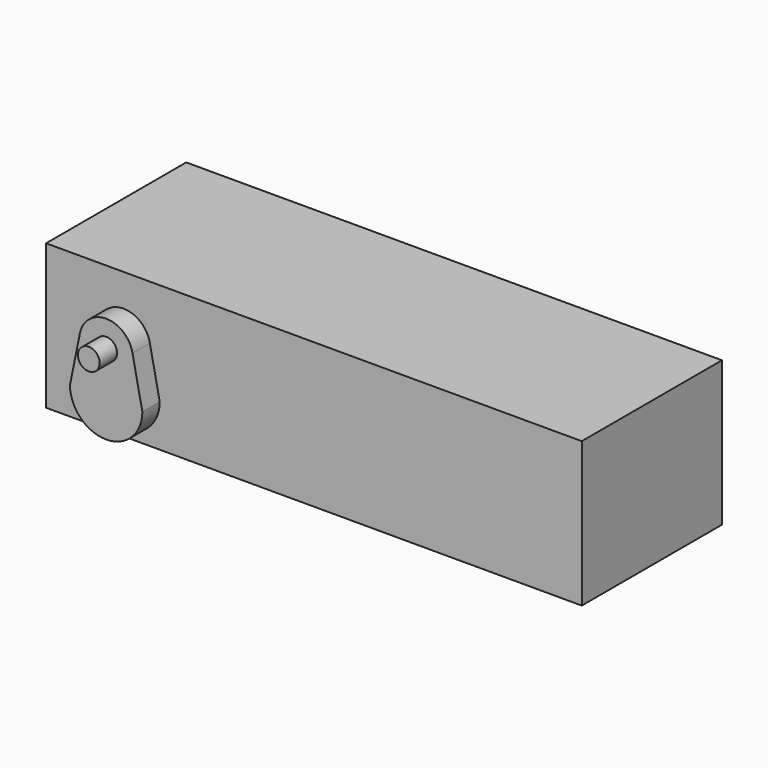
from build123d import *

# Parameters (mm, degrees)
F0_W          = 74
F0_H          = 20
F0_R          = 1.5
F1_DEPTH      = 12.1
F1_DEPTH_BACK = 12.1
F2_R          = 1.5
F3_DEPTH      = 16.1
F3_DEPTH_BACK = 16.1
F5_DEPTH      = 3
F7_DEPTH      = 3
F8_R          = 1.5
F9_DEPTH      = 3
F10_R         = 1.5
F11_DEPTH     = 3


with BuildPart() as f1:
    # F0 (on Front) → F1 (new body, two sides)
    with BuildSketch(Plane.XZ) as f1_sk:
        with Locations((0, 10)):
            Rectangle(F0_W, F0_H)
        with Locations((-25.5, 6.5)):
            Circle(F0_R, mode=Mode.SUBTRACT)
    extrude(amount=F1_DEPTH)
    extrude(f1_sk.sketch, amount=-F1_DEPTH_BACK)


with BuildPart() as f3:
    # F2 (on Front) → F3 (new body, two sides)
    with BuildSketch(Plane.XZ) as f3_sk:
        with Locations((-25.5, 6.5)):
            Circle(F2_R)
    extrude(amount=-F3_DEPTH)
    extrude(f3_sk.sketch, amount=F3_DEPTH_BACK)

    # F4 (on face) → F5 (join)
    with BuildSketch(Plane.XZ.offset(16.1)):
        with BuildLine():
            Line((-29.1369761363, 13.1800033706), (-30.5, 6.5000007141))
            ThreePointArc((-30.5, 6.5000007141), (-25.5, 1.5), (-20.5, 6.5000007141))
            Line((-20.5, 6.5000007141), (-21.8630238637, 13.1800033706))
            ThreePointArc((-21.8630238637, 13.1800033706), (-25.5, 16.2), (-29.1369761363, 13.1800033706))
        make_face()
    extrude(amount=-F5_DEPTH)

    # F6 (on face) → F7 (join)
    with BuildSketch(Plane(origin=(0, 16.1, 0), x_dir=(-1, 0, 0), z_dir=(0, 1, 0))):
        with BuildLine():
            Line((21.8, 12.4999996232), (20.5, 6.5000000586))
            ThreePointArc((20.5, 6.5000000586), (25.5, 1.5), (30.5, 6.5000000586))
            Line((30.5, 6.5000000586), (29.2, 12.4999996232))
            ThreePointArc((29.2, 12.4999996232), (25.5, 16.2), (21.8, 12.4999996232))
        make_face()
    extrude(amount=-F7_DEPTH)

    # F8 (on face) → F9 (join)
    with BuildSketch(Plane.XZ.offset(16.1)):
        with Locations((-25.5, 12.5)):
            Circle(F8_R)
    extrude(amount=F9_DEPTH)

    # F10 (on face) → F11 (join)
    with BuildSketch(Plane(origin=(0, 16.1, 0), x_dir=(-1, 0, 0), z_dir=(0, 1, 0))):
        with Locations((25.5, 12.5)):
            Circle(F10_R)
    extrude(amount=F11_DEPTH)


solid = Compound([f1.part, f3.part])
